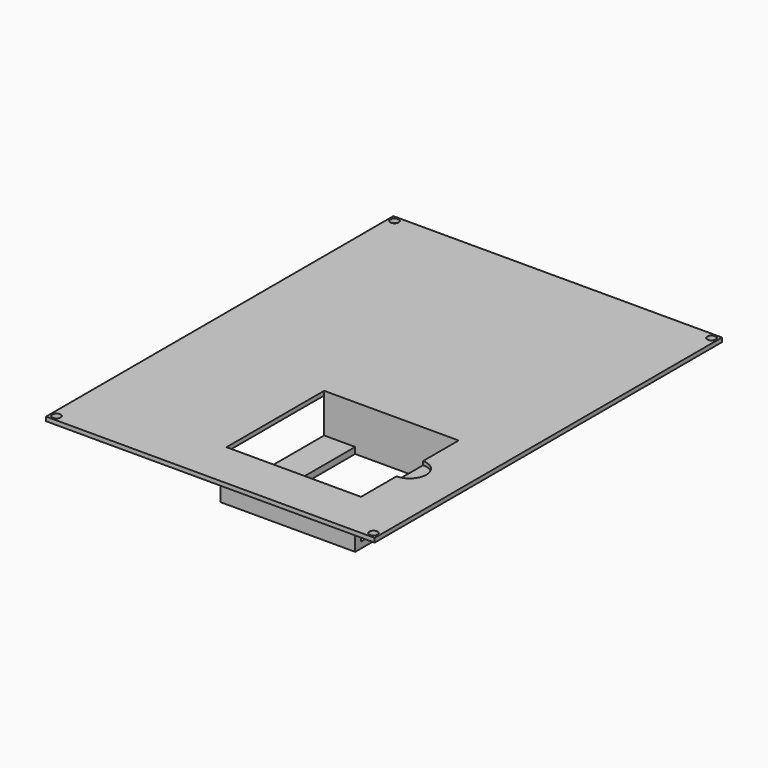
from build123d import *

# Parameters (mm, degrees)
SKETCH_W                = 158.8
SKETCH_H                = 209.8
PAD_DEPTH               = 2
SKETCH001_R             = 2
POCKET_DEPTH            = 528.261316
SKETCH001_MIRRORED_2_R  = 2
POCKET_MIRRORED_2_DEPTH = 528.261316
SKETCH002_W             = 65
SKETCH002_H             = 59
POCKET001_DEPTH         = 2.001
SKETCH003_W             = 65
SKETCH003_H             = 66
PAD001_DEPTH            = 20
POCKET002_DEPTH         = 1.8
SKETCH005_W             = 15
SKETCH005_H             = 59
POCKET003_DEPTH         = 17
SKETCH006_W             = 35
SKETCH006_H             = 59
POCKET004_DEPTH         = 20.001
SKETCH007_W             = 8
SKETCH007_H             = 39
PAD002_DEPTH            = 5


with BuildPart() as part:
    # Sketch → Pad (new body)
    with BuildSketch(Plane.XY):
        Rectangle(SKETCH_W, SKETCH_H)
    extrude(amount=PAD_DEPTH)

    # Sketch001 (on Face6 of Pad) → Pocket (cut, through all)
    with BuildSketch(Plane.XY.offset(2)):
        with Locations((-76.6, 102.1)):
            Circle(SKETCH001_R)
    pocket = extrude(amount=-POCKET_DEPTH, mode=Mode.SUBTRACT)

    # Sketch001 Mirrored 2 → Pocket Mirrored 2 (cut, through all)
    with BuildSketch(Plane(origin=(0, 0, 2), x_dir=(-1, 0, 0), z_dir=(0, 0, -1))):
        with Locations((-76.6, 102.1)):
            Circle(SKETCH001_MIRRORED_2_R)
    pocket_mirrored_2 = extrude(amount=POCKET_MIRRORED_2_DEPTH, mode=Mode.SUBTRACT)

    # Mirrored001: Pocket, Pocket Mirrored 2 across Sketch001 H_Axis
    add(pocket.mirror(Plane(origin=(0, 0, 2), x_dir=(0, 0, 1), z_dir=(0, 1, 0))), mode=Mode.SUBTRACT)
    add(pocket_mirrored_2.mirror(Plane(origin=(0, 0, 2), x_dir=(0, 0, 1), z_dir=(0, 1, 0))), mode=Mode.SUBTRACT)

    # Sketch002 (on Face5 of MultiTransform) → Pocket001 (cut, through all)
    with BuildSketch(Plane.XY.offset(2)):
        with Locations((21.9, -52.4)):
            Rectangle(SKETCH002_W, SKETCH002_H)
    extrude(amount=-POCKET001_DEPTH, mode=Mode.SUBTRACT)

    # Sketch003 (on Face4 of Pocket001) → Pad001 (join)
    with BuildSketch(Plane(origin=(0, 0, 0), x_dir=(1, 0, 0), z_dir=(0, 0, -1))):
        with Locations((21.9, 52.4)):
            Rectangle(SKETCH003_W, SKETCH003_H)
    extrude(amount=PAD001_DEPTH)

    # Sketch004 (on Face5 of Pad001) → Pocket002 (cut)
    with BuildSketch(Plane.XY.offset(2)):
        with BuildLine():
            ThreePointArc((54.4, -60.4), (62.4, -52.4), (54.4, -44.4))
            Line((54.4, -44.4), (54.4, -60.4))
        make_face()
    extrude(amount=-POCKET002_DEPTH, mode=Mode.SUBTRACT)

    # Sketch005 (on Face21 of Pocket002) → Pocket003 (cut)
    with BuildSketch(Plane.XY):
        with Locations((-3.1, -52.4)):
            Rectangle(SKETCH005_W, SKETCH005_H)
        with Locations((46.9, -52.4)):
            Rectangle(SKETCH005_W, SKETCH005_H)
    extrude(amount=-POCKET003_DEPTH, mode=Mode.SUBTRACT)

    # Sketch006 (on Face28 of Pocket003) → Pocket004 (cut, through all)
    with BuildSketch(Plane.XY):
        with Locations((21.9, -52.4)):
            Rectangle(SKETCH006_W, SKETCH006_H)
    extrude(amount=-POCKET004_DEPTH, mode=Mode.SUBTRACT)

    # Sketch007 (on Face4 of Pocket004) → Pad002 (join)
    with BuildSketch(Plane(origin=(0, 0, 0), x_dir=(1, 0, 0), z_dir=(0, 0, -1))):
        with Locations((58.4, 52.4)):
            Rectangle(SKETCH007_W, SKETCH007_H)
    extrude(amount=PAD002_DEPTH)


solid = part.part
